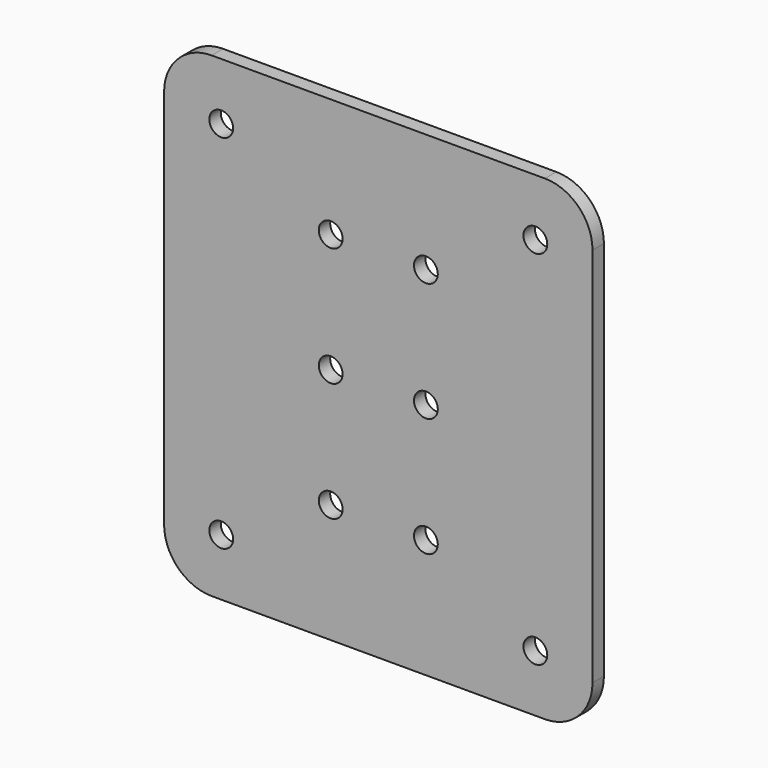
from build123d import *

# Parameters (mm, degrees)
F0_W     = 90
F0_H     = 100
F0_R     = 2.5
F1_DEPTH = 3
F2_R     = 10


with BuildPart() as f1:
    # F0 (on Front) → F1 (new body)
    with BuildSketch(Plane.XZ):
        with Locations((-10.347402, 20.452529)):
            Rectangle(F0_W, F0_H)
        with Locations((-43.347402, -17.547471)):
            Circle(F0_R, mode=Mode.SUBTRACT)
        with Locations((-20.347402, -4.547471)):
            Circle(F0_R, mode=Mode.SUBTRACT)
        with Locations((-20.347402, 20.452529)):
            Circle(F0_R, mode=Mode.SUBTRACT)
        with Locations((22.652598, -17.547471)):
            Circle(F0_R, mode=Mode.SUBTRACT)
        with Locations((-0.347402, -4.547471)):
            Circle(F0_R, mode=Mode.SUBTRACT)
        with Locations((-20.347402, 45.452529)):
            Circle(F0_R, mode=Mode.SUBTRACT)
        with Locations((-43.347402, 58.452529)):
            Circle(F0_R, mode=Mode.SUBTRACT)
        with Locations((-0.347402, 20.452529)):
            Circle(F0_R, mode=Mode.SUBTRACT)
        with Locations((-0.347402, 45.452529)):
            Circle(F0_R, mode=Mode.SUBTRACT)
        with Locations((22.652598, 58.452529)):
            Circle(F0_R, mode=Mode.SUBTRACT)
    extrude(amount=F1_DEPTH)

    # F2
    f2_edges = [f1.edges().sort_by_distance(p)[0] for p in [
        (34.652598, -1.5, 70.452529),
        (-55.347402, -1.5, 70.452529),
        (-55.347402, -1.5, -29.547471),
        (34.652598, -1.5, -29.547471),
    ]]
    fillet(f2_edges, radius=F2_R)


solid = f1.part
